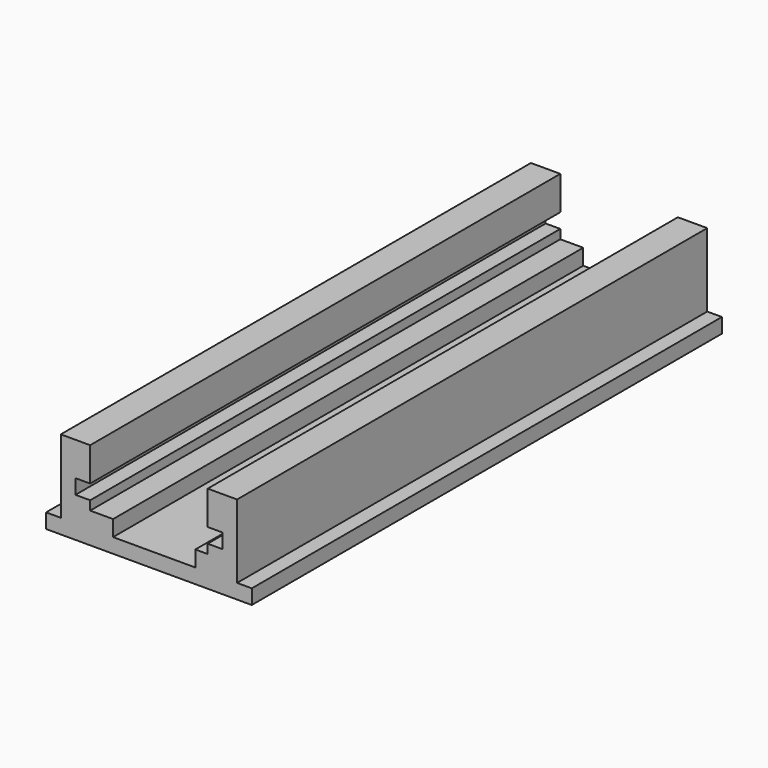
from build123d import *

# Parameters (mm, degrees)
F1_DEPTH = 127


with BuildPart() as f1:
    # F0 (on Front) → F1 (new body)
    with BuildSketch(Plane.XZ):
        Polygon((-23.368, 0), (17.907, 0), (21.082, 0), (21.082, 3.175), (17.907, 3.175), (17.907, 19.05), (11.557, 19.05), (11.557, 11.7475), (14.732, 11.7475), (14.732, 8.5725), (11.557, 8.5725), (11.557, 6.604), (8.89, 6.604), (8.89, 3.175), (-8.89, 3.175), (-8.89, 6.604), (-13.843, 6.604), (-13.843, 8.5725), (-17.018, 8.5725), (-17.018, 11.7475), (-13.843, 11.7475), (-13.843, 19.05), (-20.193, 19.05), (-20.193, 3.175), (-23.368, 3.175), align=None)
    extrude(amount=-F1_DEPTH)


solid = f1.part
